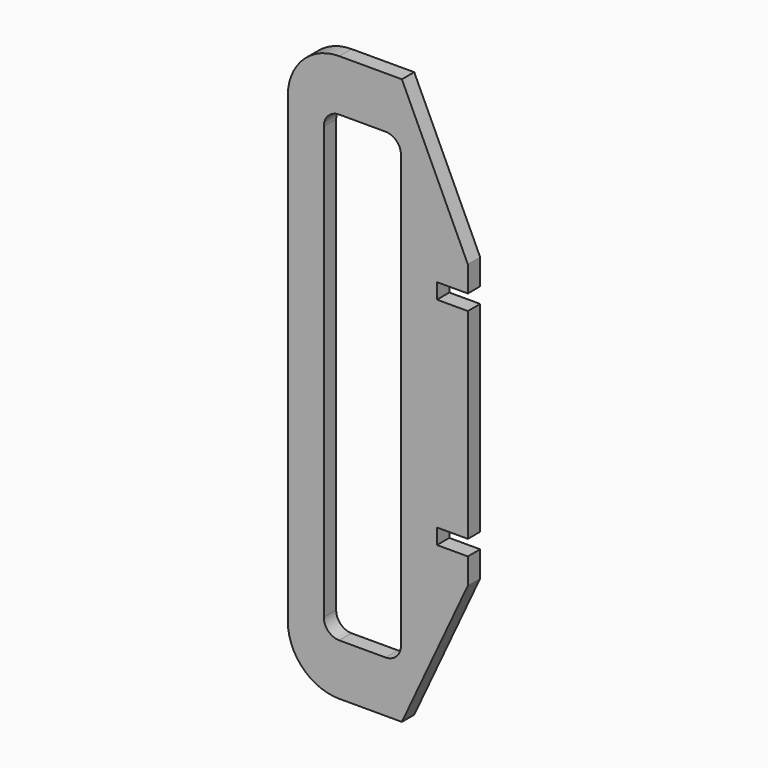
from build123d import *

# Parameters (mm, degrees)
F1_DEPTH = 3


with BuildPart() as f1:
    # F0 (on Front) → F1 (new body)
    with BuildSketch(Plane.XZ):
        with BuildLine():
            Line((-35, 45), (-35, 0))
            Line((-35, 0), (-35, -45))
            ThreePointArc((-35, -45), (-32.071068, -52.071068), (-25, -55))
            Line((-25, -55), (-12.823461, -55))
            Line((-12.823461, -55), (0, -27.5))
            Line((0, -27.5), (0, -22.5))
            Line((0, -22.5), (-6, -22.5))
            Line((-6, -22.5), (-6, -19.5))
            Line((-6, -19.5), (0, -19.5))
            Line((0, -19.5), (0, 0))
            Line((0, 0), (0, 19.5))
            Line((0, 19.5), (-6, 19.5))
            Line((-6, 19.5), (-6, 22.5))
            Line((-6, 22.5), (0, 22.5))
            Line((0, 22.5), (0, 27.5))
            Line((0, 27.5), (-12.823461, 55))
            Line((-12.823461, 55), (-25, 55))
            ThreePointArc((-25, 55), (-32.071068, 52.071068), (-35, 45))
        make_face()
        with BuildLine():
            Line((-28, -42), (-28, 0))
            Line((-28, 0), (-28, 42))
            ThreePointArc((-28, 42), (-27.12132, 44.12132), (-25, 45))
            Line((-25, 45), (-16, 45))
            ThreePointArc((-16, 45), (-13.87868, 44.12132), (-13, 42))
            Line((-13, 42), (-13, 0))
            Line((-13, 0), (-13, -42))
            ThreePointArc((-13, -42), (-13.87868, -44.12132), (-16, -45))
            Line((-16, -45), (-25, -45))
            ThreePointArc((-25, -45), (-27.12132, -44.12132), (-28, -42))
        make_face(mode=Mode.SUBTRACT)
    extrude(amount=F1_DEPTH)


solid = f1.part
